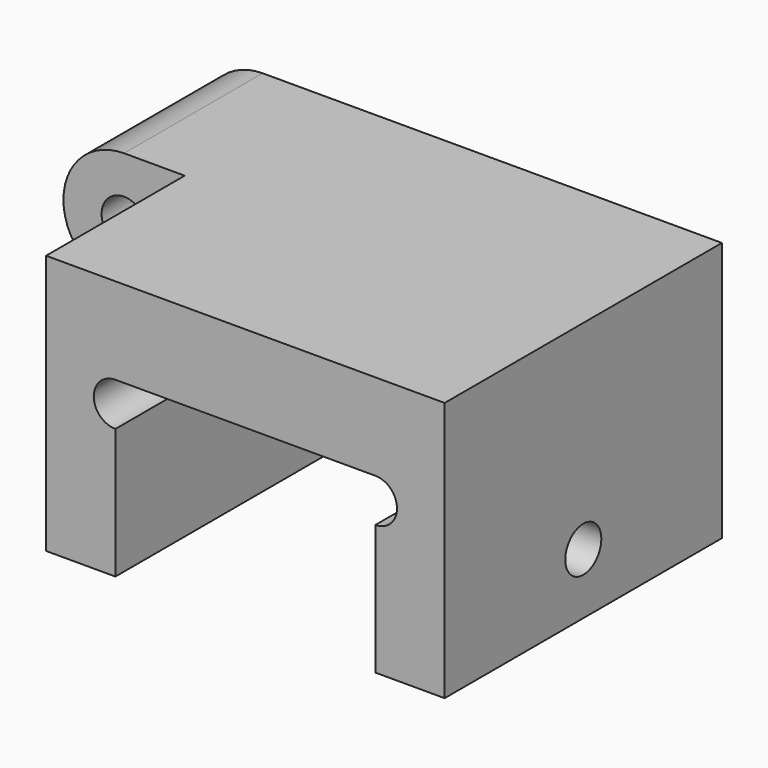
from build123d import *

# Parameters (mm, degrees)
F0_R     = 3.302
F1_DEPTH = 50.8
F3_DEPTH = 38.101
F4_R     = 3.302
F5_DEPTH = 6.35
F6_R     = 3.302
F7_DEPTH = 10.16
F9_DEPTH = 4.7625


with BuildPart() as f1:
    # F0 (on Front) → F1 (new body)
    with BuildSketch(Plane.XZ):
        with BuildLine():
            Line((0, 11.43), (0, 0))
            Line((0, 0), (10.16, 0))
            Line((10.16, 0), (10.16, 19.05))
            ThreePointArc((10.16, 19.05), (6.985, 22.225), (10.16, 25.4))
            Line((10.16, 25.4), (48.26, 25.4))
            ThreePointArc((48.26, 25.4), (51.435, 22.225), (48.26, 19.05))
            Line((48.26, 19.05), (48.26, 0))
            Line((48.26, 0), (58.42, 0))
            Line((58.42, 0), (58.42, 38.1))
            Line((58.42, 38.1), (-8.89, 38.1))
            ThreePointArc((-8.89, 38.1), (-17.78, 29.21), (-8.89, 20.32))
            ThreePointArc((-8.89, 20.32), (-2.603821, 17.716179), (0, 11.43))
        make_face()
        with Locations((-8.89, 29.21)):
            Circle(F0_R, mode=Mode.SUBTRACT)
    extrude(amount=F1_DEPTH)

    # F2 (on face) → F3 (cut, through all)
    with BuildSketch(Plane(origin=(0, 0, 0), x_dir=(1, 0, 0), z_dir=(0, 0, -1))):
        Polygon((0, 50.8), (-8.89, 50.8), (-17.78, 50.8), (-17.78, 25.4), (0, 25.4), align=None)
    extrude(amount=-F3_DEPTH, mode=Mode.SUBTRACT)

    # F4 (on face) → F5 (cut)
    with BuildSketch(Plane(origin=(0, 0, 0), x_dir=(-1, 0, 0), z_dir=(0, 1, 0))):
        Polygon((13.6525, 26.460369), (13.6525, 31.959631), (8.89, 34.709261), (4.1275, 31.959631), (4.1275, 26.460369), (8.89, 23.710739), align=None)
        with Locations((8.89, 29.21)):
            Circle(F4_R, mode=Mode.SUBTRACT)
    extrude(amount=-F5_DEPTH, mode=Mode.SUBTRACT)

    # F6 (on face) → F7 (cut, through all)
    with BuildSketch(Plane.YZ.offset(58.42)):
        with Locations((-25.4, 8.89)):
            Circle(F6_R)
    extrude(amount=-F7_DEPTH, mode=Mode.SUBTRACT)

    # F8 (on face) → F9 (cut)
    with BuildSketch(Plane(origin=(48.26, 0, 0), x_dir=(0, -1, 0), z_dir=(-1, 0, 0))):
        Polygon((29.845, 11.456322), (25.4, 14.022644), (20.955, 11.456322), (20.955, 6.323678), (25.4, 3.757356), (29.845, 6.323678), align=None)
    extrude(amount=-F9_DEPTH, mode=Mode.SUBTRACT)


solid = f1.part
